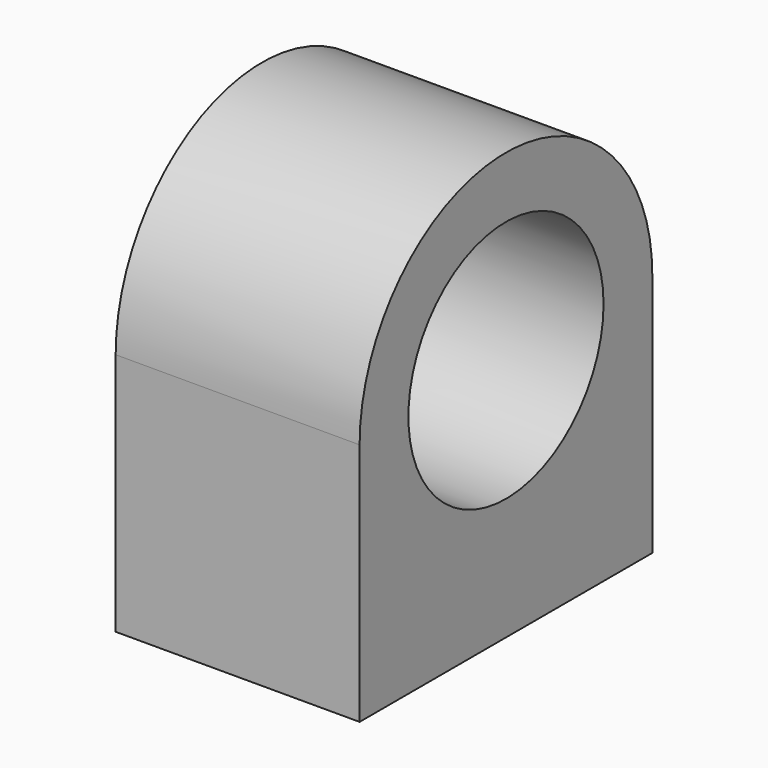
from build123d import *

# Parameters (mm, degrees)
F0_R     = 12.7
F1_DEPTH = 25.4
F2_R     = 3.175
F3_DEPTH = 12.7


with BuildPart() as f1:
    # F0 (on Right) → F1 (new body)
    with BuildSketch(Plane.YZ):
        with BuildLine():
            Line((19.05, -25.4), (19.05, 0))
            ThreePointArc((19.05, 0), (0, 19.05), (-19.05, 0))
            Line((-19.05, 0), (-19.05, -25.4))
            Line((-19.05, -25.4), (19.05, -25.4))
        make_face()
        Circle(F0_R, mode=Mode.SUBTRACT)
    extrude(amount=F1_DEPTH)

    # F2 (on face) → F3 (cut)
    with BuildSketch(Plane(origin=(0, 0, -25.4), x_dir=(1, 0, 0), z_dir=(0, 0, -1))):
        with Locations((12.7, -12.7)):
            Circle(F2_R)
        with Locations((12.7, 12.7)):
            Circle(F2_R)
    extrude(amount=-F3_DEPTH, mode=Mode.SUBTRACT)


solid = f1.part
